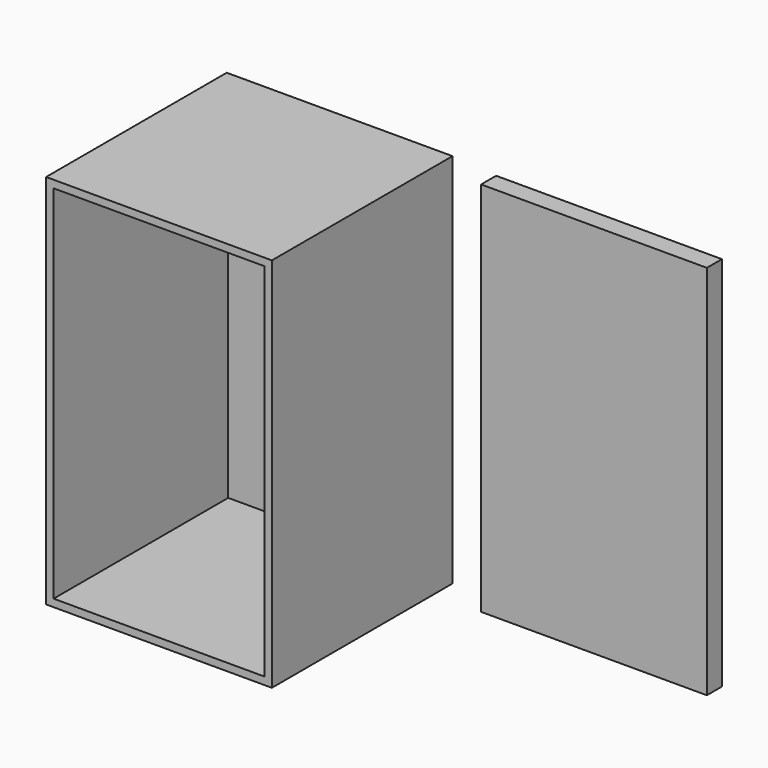
from build123d import *

# Parameters (mm, degrees)
F0_W     = 76.2
F0_H     = 127
F1_DEPTH = 76.2
F2_DEPTH = 6.35
F3_T     = -2.54


with BuildPart() as f1:
    # F0 (on Front) → F1 (new body)
    with BuildSketch(Plane.XZ):
        Rectangle(F0_W, F0_H)
    extrude(amount=F1_DEPTH)

    # F3
    f3_openings = [f1.faces().sort_by_distance(p)[0] for p in [
        (0, -76.2, 0),
    ]]
    offset(amount=F3_T, openings=f3_openings)


with BuildPart() as f2:
    # F0 (on Front) → F2 (new body)
    with BuildSketch(Plane.XZ):
        with Locations((90.930946, -1.039433)):
            Rectangle(F0_W, F0_H)
    extrude(amount=F2_DEPTH)


solid = Compound([f1.part, f2.part])
